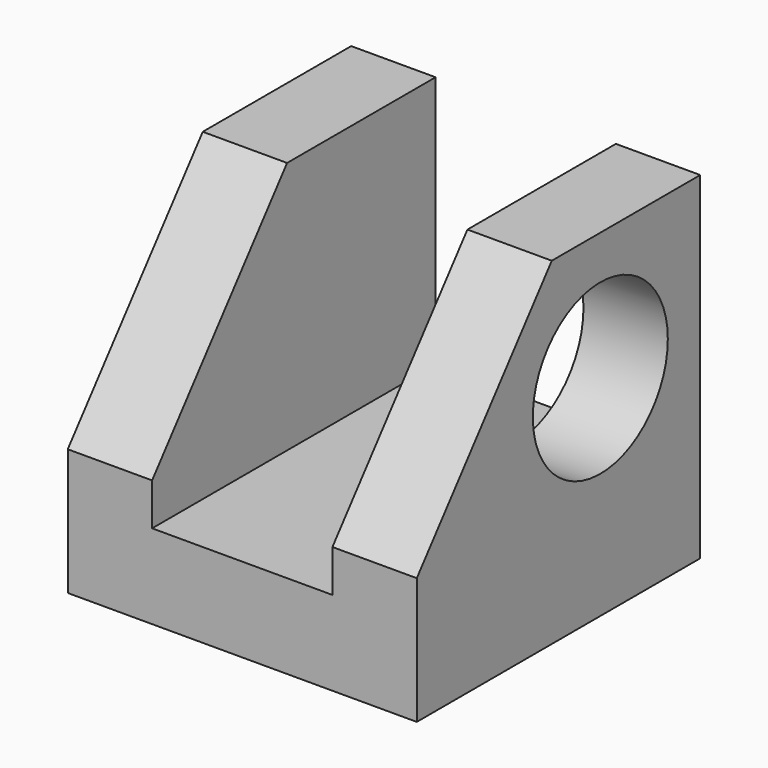
from build123d import *

# Parameters (mm, degrees)
F1_DEPTH   = 42
F3_SIZE2   = 25
F3_SIZE    = 20
F3_2_SIZE2 = 25
F3_2_SIZE  = 20
F4_D       = 20
F4_DEPTH   = 20.6886382592


with BuildPart() as f1:
    # F0 (on Front) → F1 (new body)
    with BuildSketch(Plane.XZ):
        Polygon((-20.6876382592, 40), (-20.6876382592, 0), (20.6876382592, 0), (20.6876382592, 40), (10.6876382592, 40), (10.6876382592, 10), (-10.6876382592, 10), (-10.6876382592, 40), align=None)
    extrude(amount=-F1_DEPTH)

    # F3
    f3_edges = [f1.edges().sort_by_distance(p)[0] for p in [
        (-15.687638, 0, 40),
    ]]
    f3_side = f1.faces().sort_by_distance((-15.687638, 21, 40))[0]
    chamfer(f3_edges, length=F3_SIZE, length2=F3_SIZE2, reference=f3_side)

    # F3#2
    f3_2_edges = [f1.edges().sort_by_distance(p)[0] for p in [
        (15.687638, 0, 40),
    ]]
    f3_2_side = f1.faces().sort_by_distance((15.687638, 21, 40))[0]
    chamfer(f3_2_edges, length=F3_2_SIZE, length2=F3_2_SIZE2, reference=f3_2_side)

    # F4 (through all, one way)
    with BuildSketch(Plane(origin=(0, 0, 0), x_dir=(0, 1, 0), z_dir=(-1, 0, 0))):
        with Locations((27.1959491074, -24.8310826719)):
            Circle(F4_D / 2)
    extrude(amount=-F4_DEPTH, mode=Mode.SUBTRACT)


solid = f1.part
